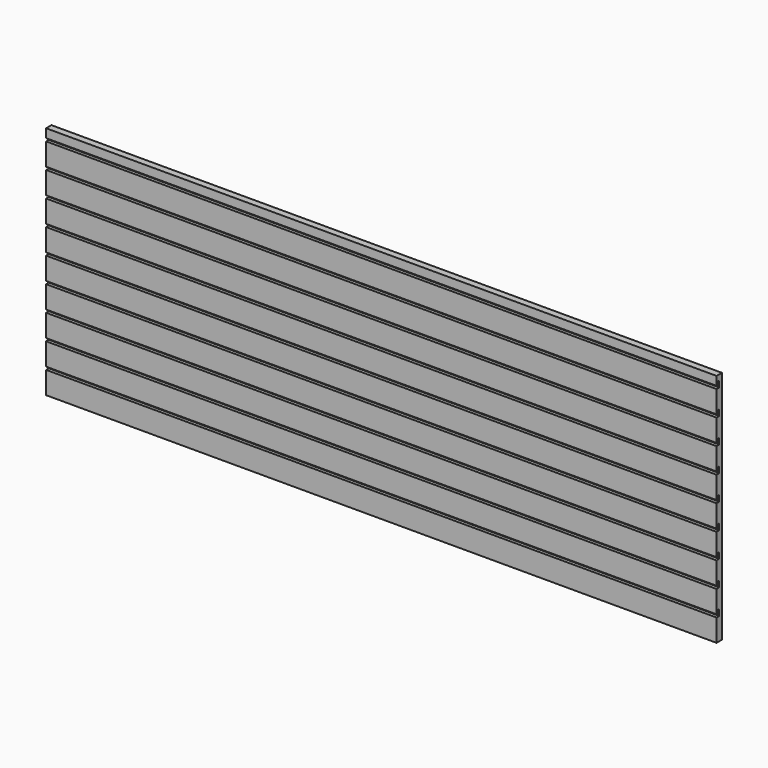
from build123d import *

# Parameters (mm, degrees)
F1_DEPTH = 1000


with BuildPart() as f1:
    # F0 (on Right) → F1 (new body, symmetric)
    with BuildSketch(Plane.YZ):
        Polygon((0, 66.5), (0, 0), (5, 0), (5, 9.5), (10, 9.5), (10, -8.5), (0, -8.5), (0, -75), (5, -75), (5, -65.5), (10, -65.5), (10, -83.5), (0, -83.5), (0, -150), (5, -150), (5, -140.5), (10, -140.5), (10, -158.5), (0, -158.5), (0, -225), (5, -225), (5, -215.5), (10, -215.5), (10, -233.5), (0, -233.5), (0, -300), (5, -300), (5, -290.5), (10, -290.5), (10, -308.5), (0, -308.5), (0, -375), (5, -375), (5, -365.5), (10, -365.5), (10, -383.5), (0, -383.5), (0, -450), (5, -450), (5, -440.5), (10, -440.5), (10, -458.5), (0, -458.5), (0, -525), (5, -525), (5, -515.5), (10, -515.5), (10, -533.5), (0, -533.5), (0, -600), (20, -600), (20, 101.032607), (0, 101.032607), (0, 75), (5, 75), (5, 84.5), (10, 84.5), (10, 66.5), align=None)
    extrude(amount=F1_DEPTH, both=True)


solid = f1.part
